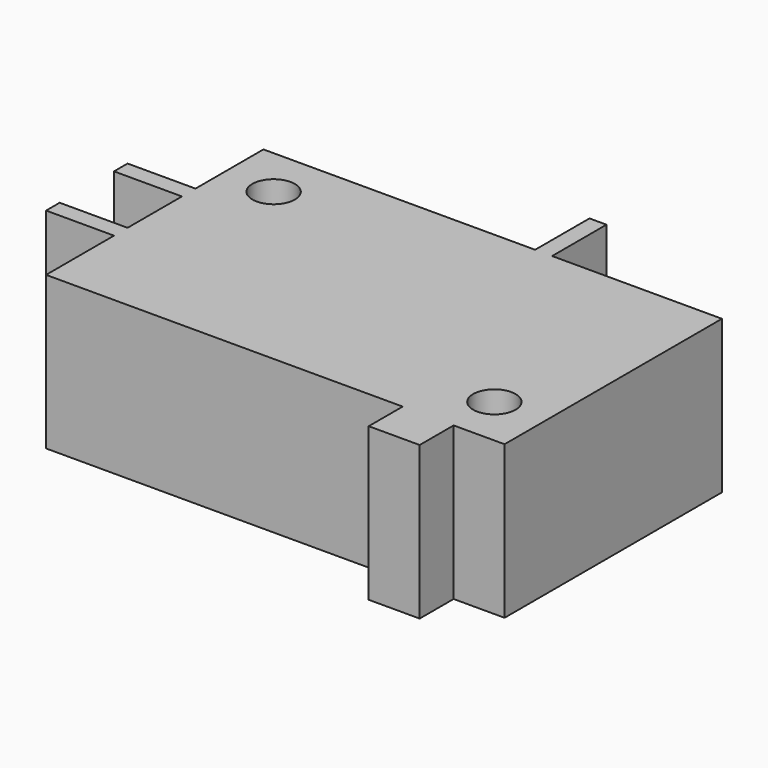
from build123d import *

# Parameters (mm, degrees)
F0_R     = 1.25
F0_W     = 4
F0_H     = 1
F0_W_2   = 1
F0_H_2   = 4
F0_W_3   = 3
F0_H_3   = 2.5
F1_DEPTH = 9


with BuildPart() as f1:
    # F0 (on Top) → F1 (new body)
    with BuildSketch(Plane.XY):
        Polygon((0, 5), (0, 0), (21, 0), (24, 0), (27, 0), (27, 16), (17, 16), (16, 16), (0, 16), (0, 11), (0, 10), (0, 6), align=None)
        with Locations((24, 3)):
            Circle(F0_R, mode=Mode.SUBTRACT)
        with Locations((3, 13)):
            Circle(F0_R, mode=Mode.SUBTRACT)
        with Locations((-2, 5.5)):
            Rectangle(F0_W, F0_H)
        with Locations((-2, 10.5)):
            Rectangle(F0_W, F0_H)
        with Locations((16.5, 18)):
            Rectangle(F0_W_2, F0_H_2)
        with Locations((22.5, -1.25)):
            Rectangle(F0_W_3, F0_H_3)
    extrude(amount=F1_DEPTH)


solid = f1.part
